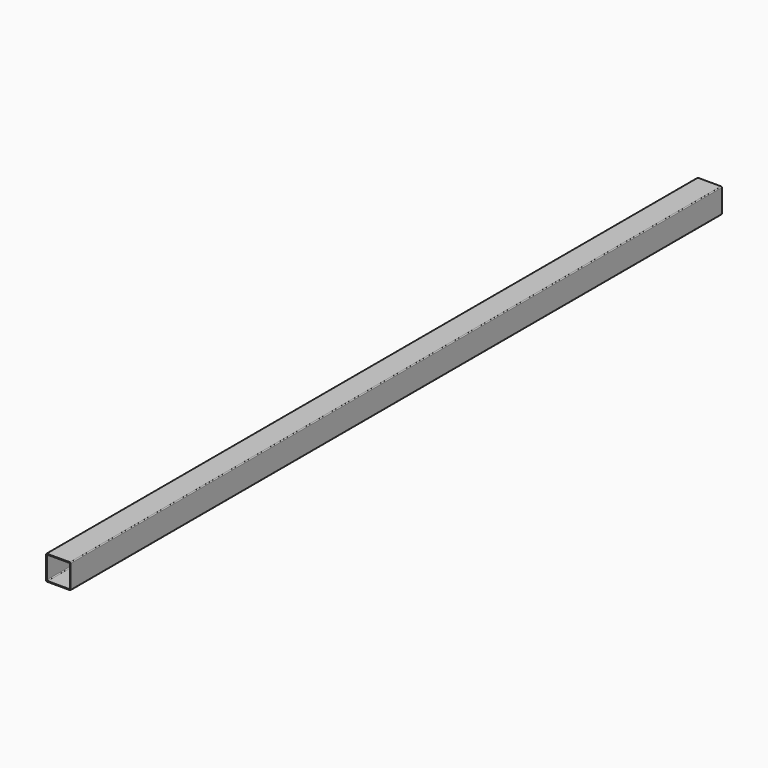
from build123d import *

# Parameters (mm, degrees)
F1_DEPTH = 1676.4


with BuildPart() as f1:
    # F0 (on Front) → F1 (new body)
    with BuildSketch(Plane.XZ):
        with BuildLine():
            Line((-23.749, -25.4), (23.749, -25.4))
            ThreePointArc((23.749, -25.4), (24.916433, -24.916433), (25.4, -23.749))
            Line((25.4, -23.749), (25.4, 23.749))
            ThreePointArc((25.4, 23.749), (24.916433, 24.916433), (23.749, 25.4))
            Line((23.749, 25.4), (-23.749, 25.4))
            ThreePointArc((-23.749, 25.4), (-24.916433, 24.916433), (-25.4, 23.749))
            Line((-25.4, 23.749), (-25.4, -23.749))
            ThreePointArc((-25.4, -23.749), (-24.916433, -24.916433), (-23.749, -25.4))
        make_face()
        with BuildLine():
            Line((-22.098, 23.749), (22.098, 23.749))
            ThreePointArc((22.098, 23.749), (23.265433, 23.265433), (23.749, 22.098))
            Line((23.749, 22.098), (23.749, -22.098))
            ThreePointArc((23.749, -22.098), (23.265433, -23.265433), (22.098, -23.749))
            Line((22.098, -23.749), (-22.098, -23.749))
            ThreePointArc((-22.098, -23.749), (-23.265433, -23.265433), (-23.749, -22.098))
            Line((-23.749, -22.098), (-23.749, 22.098))
            ThreePointArc((-23.749, 22.098), (-23.265433, 23.265433), (-22.098, 23.749))
        make_face(mode=Mode.SUBTRACT)
    extrude(amount=F1_DEPTH)


solid = f1.part
